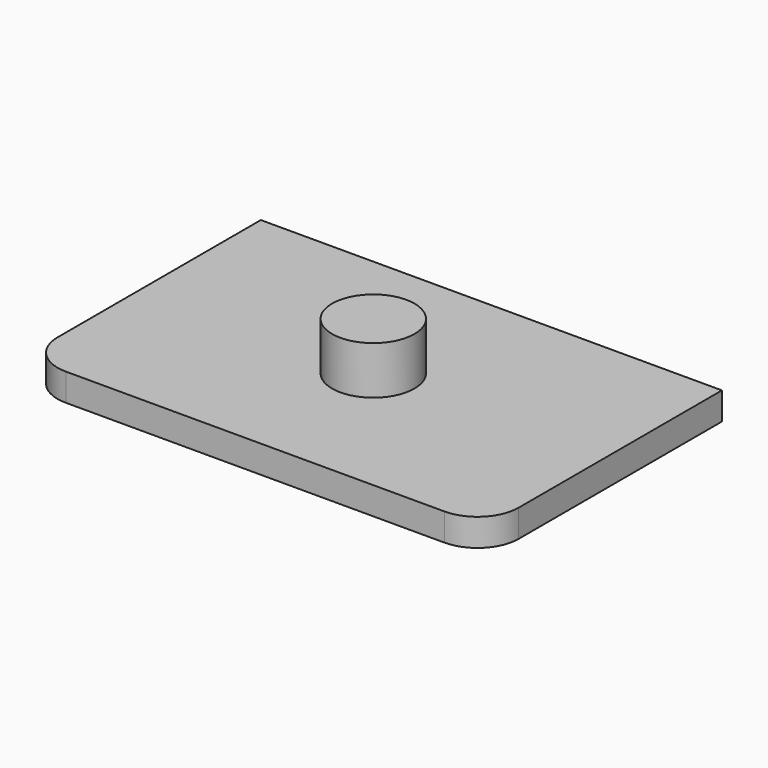
from build123d import *

# Parameters (mm, degrees)
F0_R     = 7.62
F1_DEPTH = 8.89
F0_W     = 85.2932
F0_H     = 54.61
F2_DEPTH = 5.08
F3_R     = 7.62


with BuildPart() as f1:
    # F0 (on Top) → F1 (new body)
    with BuildSketch(Plane.XY):
        Circle(F0_R)
    extrude(amount=F1_DEPTH)

    # F0 (on Top) → F2 (join)
    with BuildSketch(Plane.XY):
        Rectangle(F0_W, F0_H)
        Circle(F0_R, mode=Mode.SUBTRACT)
        Circle(F0_R)
    extrude(amount=-F2_DEPTH)

    # F3
    f3_edges = [f1.edges().sort_by_distance(p)[0] for p in [
        (42.6466, -27.305, -2.54),
        (-42.6466, -27.305, -2.54),
    ]]
    fillet(f3_edges, radius=F3_R)


solid = f1.part
